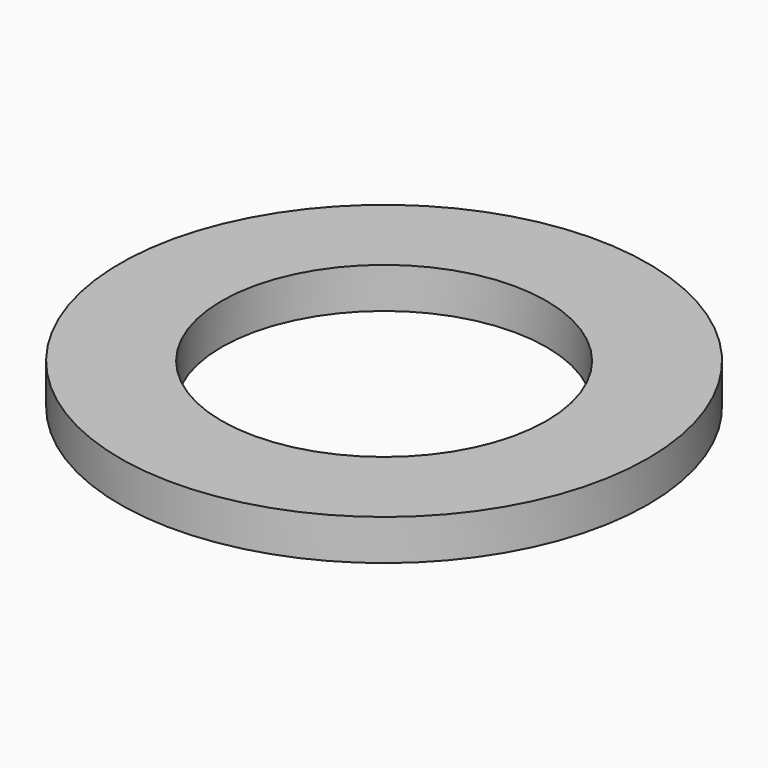
from build123d import *

# Parameters (mm, degrees)
CYLINDER007_R     = 0.4
CYLINDER007_DEPTH = 0.1
CYLINDER006_R     = 0.65
CYLINDER006_DEPTH = 0.1


with BuildPart() as cylinder007:
    # Cylinder007 → Cylinder007 (new body)
    with BuildSketch(Plane.XY.offset(1.62)):
        Circle(CYLINDER007_R)
    extrude(amount=CYLINDER007_DEPTH)


with BuildPart() as cut016:
    # Cylinder006 → Cylinder006 (new body)
    with BuildSketch(Plane.XY.offset(1.62)):
        Circle(CYLINDER006_R)
    extrude(amount=CYLINDER006_DEPTH)

    # Cut016: cut Cylinder007
    add(cylinder007.part, mode=Mode.SUBTRACT)


with BuildPart() as cut016_1:
    # Cut016 placement: moved
    add(cut016.part.moved(Location((29.04, 12.7, 0))))


solid = cut016_1.part
